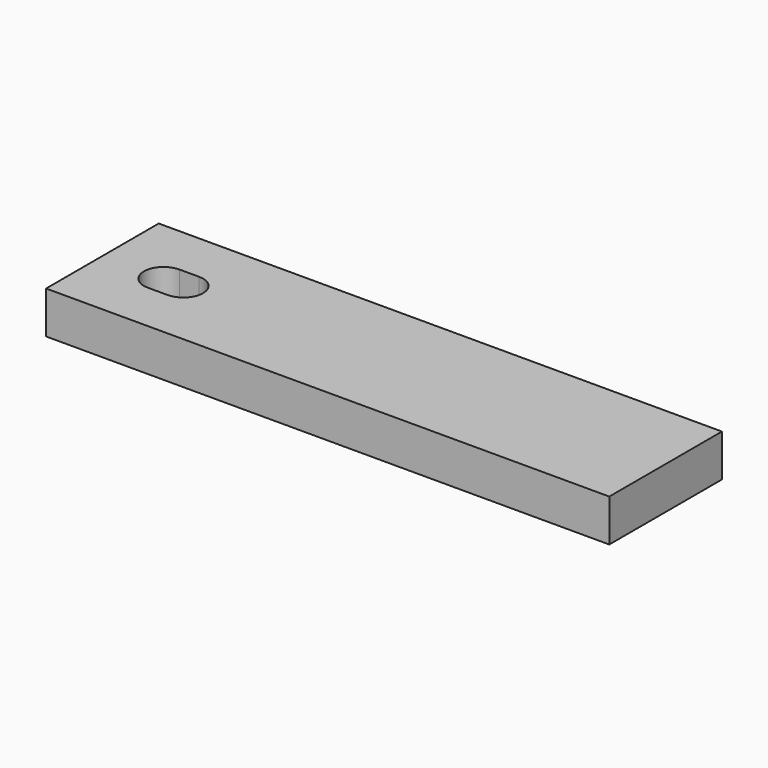
from build123d import *

# Parameters (mm, degrees)
SKETCH_W     = 80
SKETCH_H     = 20
PAD_DEPTH    = 6
POCKET_DEPTH = 4


with BuildPart() as part:
    # Sketch → Pad (new body)
    with BuildSketch(Plane.XY):
        Rectangle(SKETCH_W, SKETCH_H)
    extrude(amount=PAD_DEPTH)

    # Sketch001 → Pocket (cut)
    with BuildSketch(Plane.XY.offset(6)):
        with BuildLine():
            ThreePointArc((-31.3, 2.8), (-34.1, 0), (-31.3, -2.8))
            Line((-31.3, -2.8), (-28.5, -2.8))
            ThreePointArc((-28.5, -2.8), (-25.7, 0), (-28.5, 2.8))
            Line((-31.3, 2.8), (-28.5, 2.8))
        make_face()
    extrude(amount=-POCKET_DEPTH, mode=Mode.SUBTRACT)


solid = part.part
